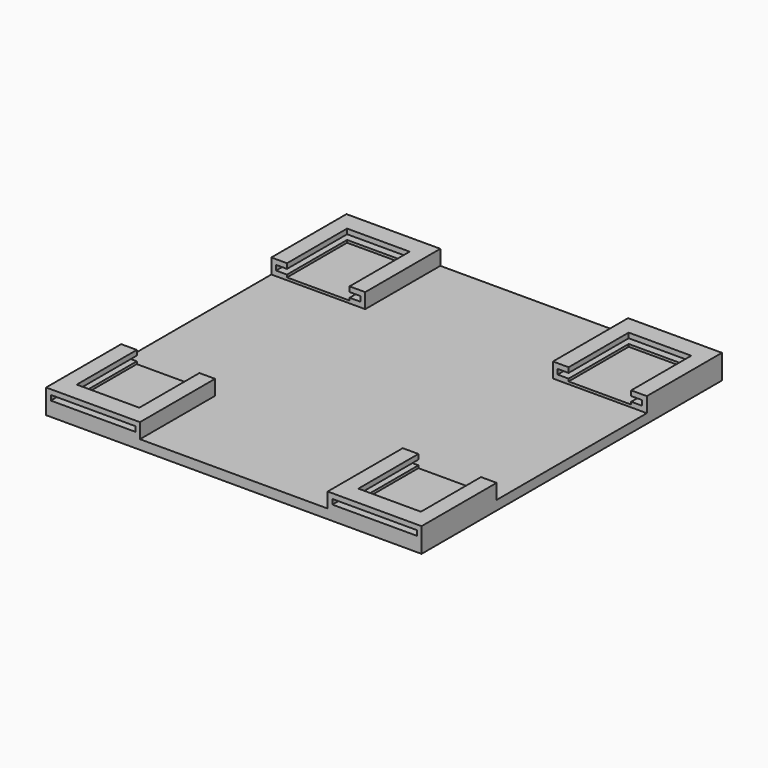
from build123d import *

# Parameters (mm, degrees)
SKETCH_W           = 120
SKETCH_H           = 120
PAD_DEPTH          = 3
SKETCH001_W        = 30
SKETCH001_H        = 30
PAD001_DEPTH       = 4.8
SKETCH002_W        = 27
SKETCH002_H        = 1.6
POCKET_DEPTH       = 369.770569
SKETCH003_W        = 20
SKETCH003_H        = 24
POCKET001_DEPTH    = 4
POLARPATTERN_COUNT = 2


with BuildPart() as part:
    # Sketch → Pad (new body)
    with BuildSketch(Plane.XY):
        Rectangle(SKETCH_W, SKETCH_H)
    extrude(amount=PAD_DEPTH)

    # Sketch001 (on Face6 of Pad) → Pad001 (join)
    with BuildSketch(Plane.XY.offset(3)):
        with Locations((-45, 45)):
            Rectangle(SKETCH001_W, SKETCH001_H)
    pad001 = extrude(amount=PAD001_DEPTH)

    # Sketch002 (on Face7 of Pad001) → Pocket (cut, through all)
    with BuildSketch(Plane.XZ.offset(-30)):
        with Locations((-45, 5.4)):
            Rectangle(SKETCH002_W, SKETCH002_H)
    pocket = extrude(amount=-POCKET_DEPTH, mode=Mode.SUBTRACT)

    # Sketch003 (on Face7 of Pocket) → Pocket001 (cut)
    with BuildSketch(Plane.XY.offset(7.8)):
        with Locations((-45, 42)):
            Rectangle(SKETCH003_W, SKETCH003_H)
    pocket001 = extrude(amount=-POCKET001_DEPTH, mode=Mode.SUBTRACT)

    # Mirrored: Pad001, Pocket, Pocket001 across Sketch001 V_Axis
    add(pad001.mirror(Plane(origin=(0, 0, 3), x_dir=(0, 0, 1), z_dir=(1, 0, 0))))
    add(pocket.mirror(Plane(origin=(0, 0, 3), x_dir=(0, 0, 1), z_dir=(1, 0, 0))), mode=Mode.SUBTRACT)
    add(pocket001.mirror(Plane(origin=(0, 0, 3), x_dir=(0, 0, 1), z_dir=(1, 0, 0))), mode=Mode.SUBTRACT)

    # Mirrored001: Pad001, Pocket, Pocket001 across Sketch001 H_Axis
    add(pad001.mirror(Plane(origin=(0, 0, 3), x_dir=(0, 0, 1), z_dir=(0, 1, 0))))
    add(pocket.mirror(Plane(origin=(0, 0, 3), x_dir=(0, 0, 1), z_dir=(0, 1, 0))), mode=Mode.SUBTRACT)
    add(pocket001.mirror(Plane(origin=(0, 0, 3), x_dir=(0, 0, 1), z_dir=(0, 1, 0))), mode=Mode.SUBTRACT)

    # PolarPattern: Pad001, Pocket, Pocket001 ×2 about axis
    polarpattern_axis = Axis((0, 0, 3), (0, 0, 1))
    for i in range(1, POLARPATTERN_COUNT):
        add(pad001.rotate(polarpattern_axis, i * 360 / POLARPATTERN_COUNT))
        add(pocket.rotate(polarpattern_axis, i * 360 / POLARPATTERN_COUNT), mode=Mode.SUBTRACT)
        add(pocket001.rotate(polarpattern_axis, i * 360 / POLARPATTERN_COUNT), mode=Mode.SUBTRACT)


solid = part.part
